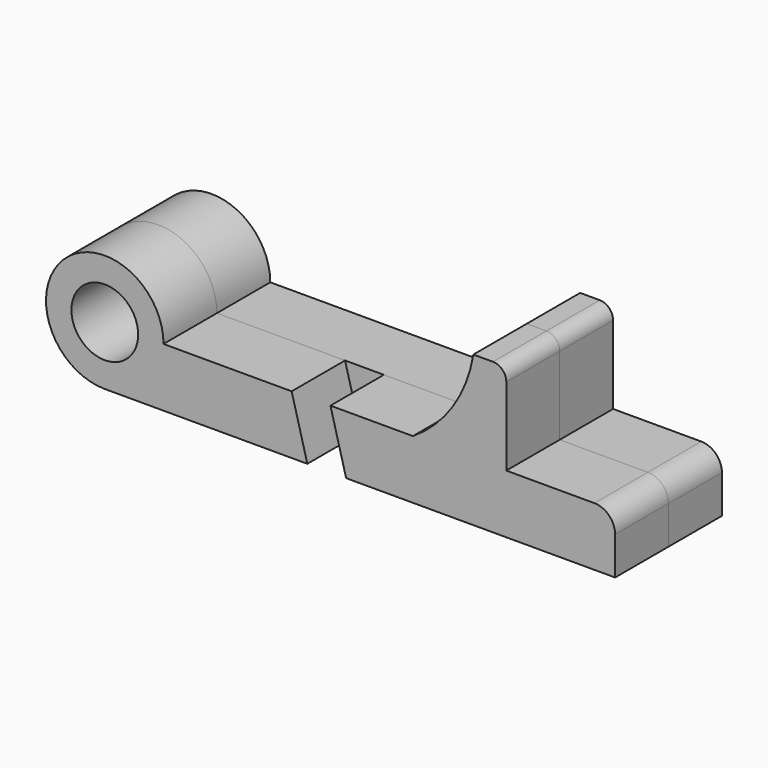
from build123d import *

# Parameters (mm, degrees)
F0_R     = 12.704141
F1_DEPTH = 25.4
F2_DEPTH = 25.4


with BuildPart() as f1:
    # F0 (on Front) → F1 (new body)
    with BuildSketch(Plane.XZ):
        with BuildLine():
            Line((26.122206, 0), (22.352, 0))
            ThreePointArc((22.352, 0), (-15.805251, 15.805251), (0, -22.352))
            Line((0, -22.352), (40.043821, -22.352))
            Line((40.043821, -22.352), (26.122206, 0))
        make_face()
        Circle(F0_R, mode=Mode.SUBTRACT)
        Polygon((71.118846, 0), (26.122206, 0), (40.043821, -22.352), (77.085253, -22.352), align=None)
        with BuildLine():
            Line((152.792531, 0), (117.2464, 0))
            Line((117.2464, 0), (117.2464, -22.352))
            Line((117.2464, -22.352), (194.2084, -22.352))
            Line((194.2084, -22.352), (194.2084, -7.874))
            ThreePointArc((194.2084, -7.874), (191.902159, -2.306241), (186.3344, 0))
            Line((186.3344, 0), (152.792531, 0))
        make_face()
        with BuildLine():
            ThreePointArc((140.254136, 34.798), (132.485653, 14.929239), (117.2464, 0))
            Line((117.2464, 0), (152.792531, 0))
            Line((152.792531, 0), (152.792531, 29.718))
            ThreePointArc((152.792531, 29.718), (151.304634, 33.310102), (147.712531, 34.798))
            Line((147.712531, 34.798), (140.254136, 34.798))
        make_face()
        Polygon((117.2464, 0), (85.879992, 0), (91.8464, -22.352), (117.2464, -22.352), align=None)
    extrude(amount=F1_DEPTH)


with BuildPart() as f2:
    # F0 (on Front) → F2 (new body)
    with BuildSketch(Plane.XZ):
        Polygon((71.118846, 0), (26.122206, 0), (40.043821, -22.352), (77.085253, -22.352), align=None)
        with BuildLine():
            Line((26.122206, 0), (22.352, 0))
            ThreePointArc((22.352, 0), (-15.805251, 15.805251), (0, -22.352))
            Line((0, -22.352), (40.043821, -22.352))
            Line((40.043821, -22.352), (26.122206, 0))
        make_face()
        Circle(F0_R, mode=Mode.SUBTRACT)
        Polygon((117.2464, 0), (85.879992, 0), (91.8464, -22.352), (117.2464, -22.352), align=None)
        with BuildLine():
            Line((152.792531, 0), (117.2464, 0))
            Line((117.2464, 0), (117.2464, -22.352))
            Line((117.2464, -22.352), (194.2084, -22.352))
            Line((194.2084, -22.352), (194.2084, -7.874))
            ThreePointArc((194.2084, -7.874), (191.902159, -2.306241), (186.3344, 0))
            Line((186.3344, 0), (152.792531, 0))
        make_face()
        with BuildLine():
            ThreePointArc((140.254136, 34.798), (132.485653, 14.929239), (117.2464, 0))
            Line((117.2464, 0), (152.792531, 0))
            Line((152.792531, 0), (152.792531, 29.718))
            ThreePointArc((152.792531, 29.718), (151.304634, 33.310102), (147.712531, 34.798))
            Line((147.712531, 34.798), (140.254136, 34.798))
        make_face()
        Polygon((85.879992, 0), (71.118846, 0), (77.085253, -22.352), align=None)
        Polygon((85.879992, 0), (77.085253, -22.352), (91.8464, -22.352), align=None)
    extrude(amount=-F2_DEPTH)


solid = Compound([f1.part, f2.part])
